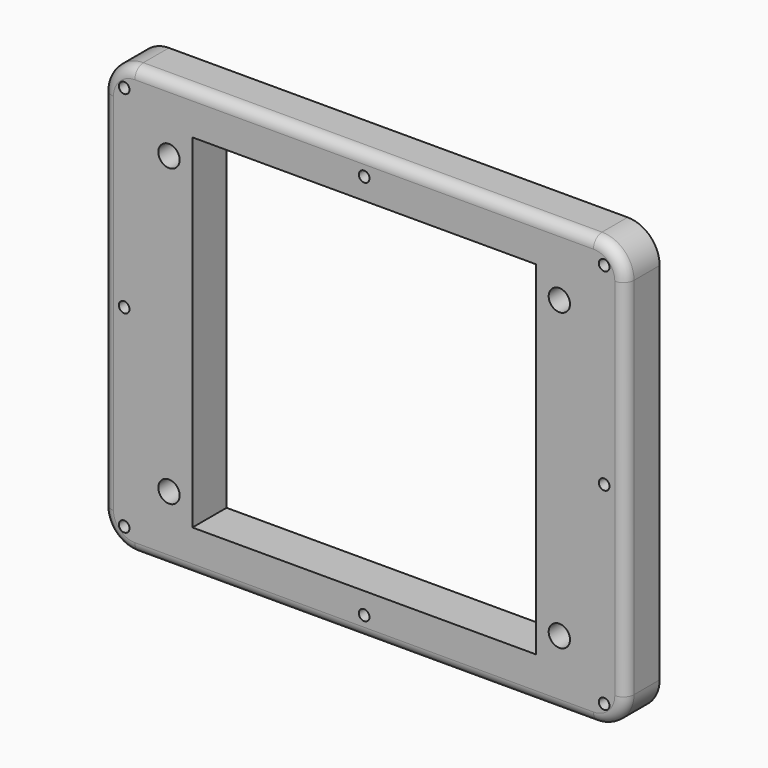
from build123d import *

# Parameters (mm, degrees)
F0_W     = 49
F0_H     = 40.2
F0_R     = 0.5
F0_R_2   = 1
F0_W_2   = 32.2
F0_H_2   = 32.2
F1_DEPTH = 4
F2_R     = 3
F3_R     = 1


with BuildPart() as f1:
    # F0 (on Front) → F1 (new body)
    with BuildSketch(Plane.XZ):
        Rectangle(F0_W, F0_H)
        with Locations((-22.5, -18.1)):
            Circle(F0_R, mode=Mode.SUBTRACT)
        with Locations((-18.3, -13.85)):
            Circle(F0_R_2, mode=Mode.SUBTRACT)
        with Locations((0, -18.1)):
            Circle(F0_R, mode=Mode.SUBTRACT)
        with Locations((22.5, -18.1)):
            Circle(F0_R, mode=Mode.SUBTRACT)
        with Locations((18.3, -13.85)):
            Circle(F0_R_2, mode=Mode.SUBTRACT)
        with Locations((-22.5, 0)):
            Circle(F0_R, mode=Mode.SUBTRACT)
        Rectangle(F0_W_2, F0_H_2, mode=Mode.SUBTRACT)
        with Locations((-18.3, 13.85)):
            Circle(F0_R_2, mode=Mode.SUBTRACT)
        with Locations((-22.5, 18.1)):
            Circle(F0_R, mode=Mode.SUBTRACT)
        with Locations((0, 18.1)):
            Circle(F0_R, mode=Mode.SUBTRACT)
        with Locations((22.5, 0)):
            Circle(F0_R, mode=Mode.SUBTRACT)
        with Locations((18.3, 13.85)):
            Circle(F0_R_2, mode=Mode.SUBTRACT)
        with Locations((22.5, 18.1)):
            Circle(F0_R, mode=Mode.SUBTRACT)
    extrude(amount=F1_DEPTH)

    # F2
    f2_edges = [f1.edges().sort_by_distance(p)[0] for p in [
        (-24.5, -2, -20.1),
        (24.5, -2, -20.1),
        (24.5, -2, 20.1),
        (-24.5, -2, 20.1),
    ]]
    fillet(f2_edges, radius=F2_R)

    # F3
    f3_edges = [f1.edges().sort_by_distance(p)[0] for p in [
        (0, -4, 20.1),
    ]]
    fillet(f3_edges, radius=F3_R)


solid = f1.part
